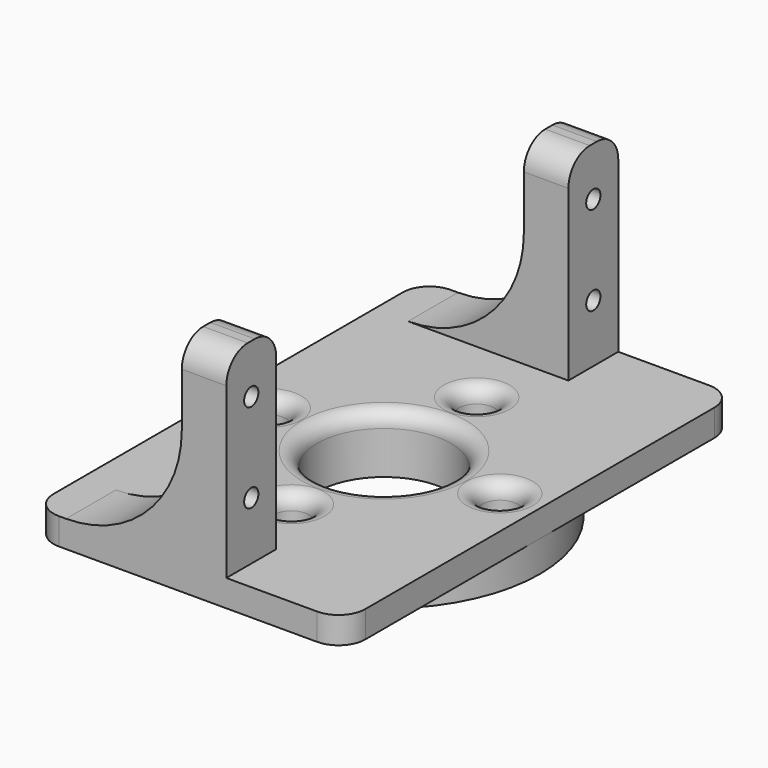
from build123d import *

# Parameters (mm, degrees)
SKETCH002_W          = 35
SKETCH002_H          = 55
PAD_DEPTH            = 3
SKETCH001_W          = 7
SKETCH001_H          = 22
PAD001_DEPTH         = 5
SKETCH_R             = 17.5
SKETCH_R_2           = 7.35
SKETCH_R_3           = 1.9
PAD002_DEPTH         = 3.5
SKETCH003_R          = 7.5
SKETCH003_R_2        = 2
POCKET_DEPTH         = 42.001
FILLET_R             = 3
FILLET001_R          = 13
FILLET002_R          = 1.7
SKETCH004_R          = 1
POCKET001_DEPTH      = 67.501
POCKET001_DEPTH_BACK = 0.001


with BuildPart() as part:
    # Sketch002 → Pad (new body)
    with BuildSketch(Plane.XY):
        Rectangle(SKETCH002_W, SKETCH002_H)
    extrude(amount=-PAD_DEPTH)

    # Sketch001 → Pad001 (join)
    with BuildSketch(Plane.YZ.offset(-0.7)):
        with Locations((-24, 11)):
            Rectangle(SKETCH001_W, SKETCH001_H)
        with Locations((24, 11)):
            Rectangle(SKETCH001_W, SKETCH001_H)
    extrude(amount=PAD001_DEPTH)

    # Sketch → Pad002 (join)
    with BuildSketch(Plane.XY.offset(-3)):
        Circle(SKETCH_R)
        Circle(SKETCH_R_2, mode=Mode.SUBTRACT)
        with Locations((-13, 0)):
            Circle(SKETCH_R_3, mode=Mode.SUBTRACT)
        with Locations((0, 13)):
            Circle(SKETCH_R_3, mode=Mode.SUBTRACT)
        with Locations((13, 0)):
            Circle(SKETCH_R_3, mode=Mode.SUBTRACT)
        with Locations((0, -13)):
            Circle(SKETCH_R_3, mode=Mode.SUBTRACT)
    extrude(amount=-PAD002_DEPTH)

    # Sketch003 → Pocket (cut, through all)
    with BuildSketch(Plane.XY.offset(-20)):
        Circle(SKETCH003_R)
        with Locations((-13, 0)):
            Circle(SKETCH003_R_2)
        with Locations((0, 13)):
            Circle(SKETCH003_R_2)
        with Locations((13, 0)):
            Circle(SKETCH003_R_2)
        with Locations((0, -13)):
            Circle(SKETCH003_R_2)
    extrude(amount=POCKET_DEPTH, mode=Mode.SUBTRACT)

    # Fillet
    fillet_edges = [part.edges().sort_by_distance(p)[0] for p in [
        (1.8, 27.5, 22),
        (1.8, 20.5, 22),
        (1.8, -20.5, 22),
        (1.8, -27.5, 22),
        (-17.5, -27.5, -1.5),
        (-17.5, 27.5, -1.5),
        (17.5, 27.5, -1.5),
        (17.5, -27.5, -1.5),
    ]]
    fillet(fillet_edges, radius=FILLET_R)

    # Fillet001
    fillet001_edges = [part.edges().sort_by_distance(p)[0] for p in [
        (-0.7, 24, 0),
        (-0.7, -24, 0),
    ]]
    fillet(fillet001_edges, radius=FILLET001_R)

    # Fillet002
    fillet002_edges = [part.edges().sort_by_distance(p)[0] for p in [
        (11, 0, 0),
        (-7.5, 0, 0),
        (-15, 0, 0),
        (-2, -13, 0),
        (-2, 13, 0),
    ]]
    fillet(fillet002_edges, radius=FILLET002_R)

    # Sketch004 → Pocket001 (cut, two sides)
    with BuildSketch(Plane.YZ.offset(50)) as pocket001_sk:
        with Locations((-24, 16.5)):
            Circle(SKETCH004_R)
        with Locations((-24, 6.5)):
            Circle(SKETCH004_R)
        with Locations((24, 16.5)):
            Circle(SKETCH004_R)
        with Locations((24, 6.5)):
            Circle(SKETCH004_R)
    extrude(amount=-POCKET001_DEPTH, mode=Mode.SUBTRACT)
    extrude(pocket001_sk.sketch, amount=POCKET001_DEPTH_BACK, mode=Mode.SUBTRACT)


solid = part.part
